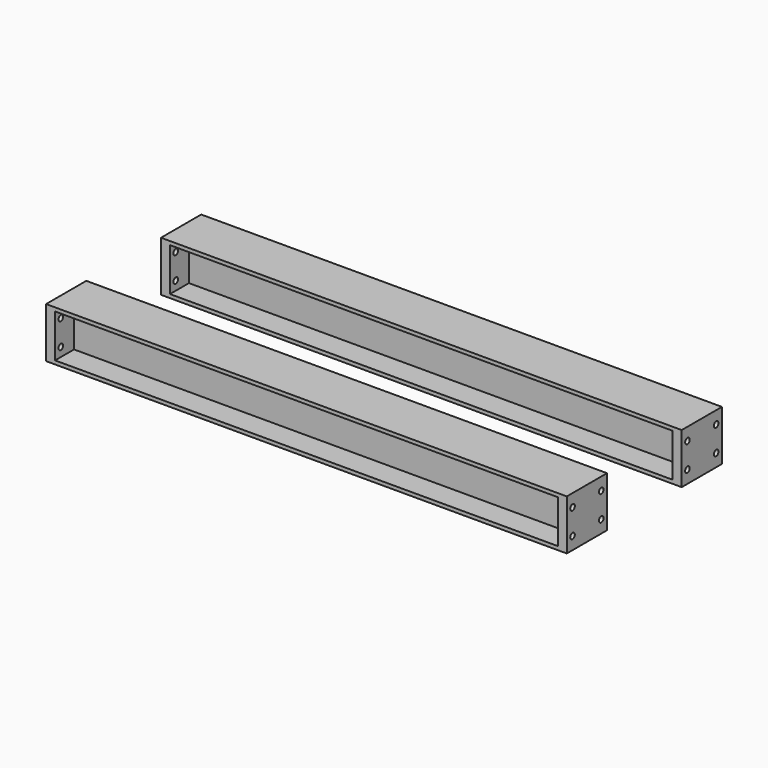
from build123d import *

# Parameters (mm, degrees)
F1_DEPTH = 700
F2_W     = 66
F2_H     = 120
F2_R     = 8
F3_DEPTH = 25
F4_W     = 66
F4_H     = 120
F4_R     = 8
F5_DEPTH = 25


with BuildPart() as f1:
    # F0 (on Right) → F1 (new body, symmetric)
    with BuildSketch(Plane.YZ):
        Polygon((-270, 70), (-270, 60), (-204, 60), (-204, 0), (-204, -60), (-270, -60), (-270, -70), (-130, -70), (-130, -60), (-196, -60), (-196, 60), (-130, 60), (-130, 70), align=None)
    extrude(amount=F1_DEPTH, both=True)

    # F2 (on face) → F3 (join)
    with BuildSketch(Plane.YZ.offset(700)):
        Polygon((-130, 70), (-270, 70), (-270, 60), (-204, 60), (-204, -60), (-270, -60), (-270, -70), (-130, -70), (-130, -60), (-196, -60), (-196, 60), (-130, 60), align=None)
        with Locations((-163, 0)):
            Rectangle(F2_W, F2_H)
        with Locations((-150, -35)):
            Circle(F2_R, mode=Mode.SUBTRACT)
        with Locations((-150, 35)):
            Circle(F2_R, mode=Mode.SUBTRACT)
        with Locations((-237, 0)):
            Rectangle(F2_W, F2_H)
        with Locations((-250, -35)):
            Circle(F2_R, mode=Mode.SUBTRACT)
        with Locations((-250, 35)):
            Circle(F2_R, mode=Mode.SUBTRACT)
    extrude(amount=F3_DEPTH)

    # F4 (on face) → F5 (join)
    with BuildSketch(Plane(origin=(-700, 0, 0), x_dir=(0, -1, 0), z_dir=(-1, 0, 0))):
        Polygon((270, 70), (130, 70), (130, 60), (196, 60), (196, -60), (130, -60), (130, -70), (270, -70), (270, -60), (204, -60), (204, 60), (270, 60), align=None)
        with Locations((163, 0)):
            Rectangle(F4_W, F4_H)
        with Locations((150, -35)):
            Circle(F4_R, mode=Mode.SUBTRACT)
        with Locations((150, 35)):
            Circle(F4_R, mode=Mode.SUBTRACT)
        with Locations((237, 0)):
            Rectangle(F4_W, F4_H)
        with Locations((250, -35)):
            Circle(F4_R, mode=Mode.SUBTRACT)
        with Locations((250, 35.526965)):
            Circle(F4_R, mode=Mode.SUBTRACT)
    extrude(amount=F5_DEPTH)


with BuildPart() as f6_1:
    # F6: instance of F1
    add(f1.part.mirror(Plane.XZ))


solid = Compound([f1.part, f6_1.part])
